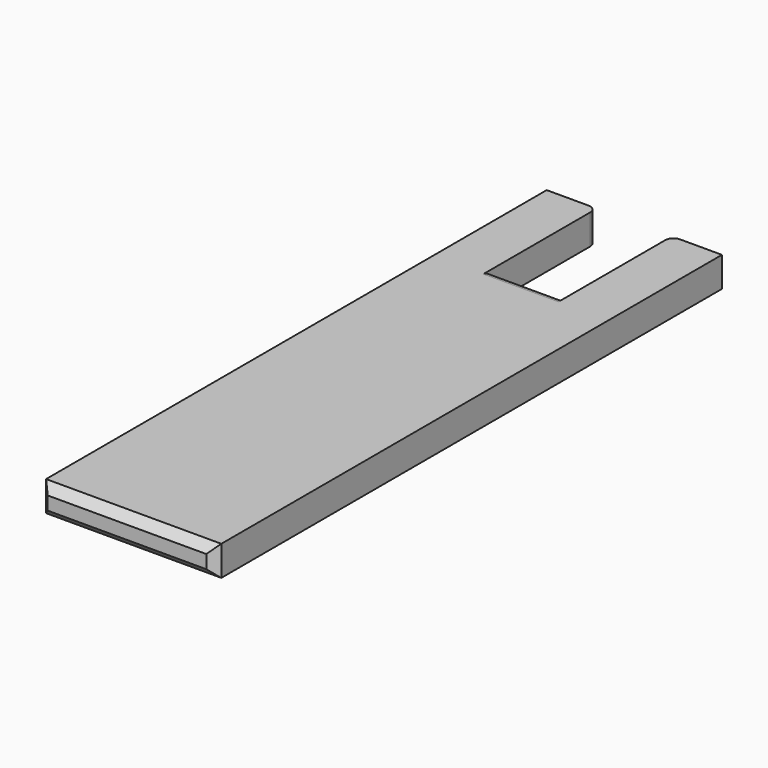
from build123d import *

# Parameters (mm, degrees)
F1_DEPTH = 1.8
F2_R     = 0.5
F3_SIZE  = 0.5


with BuildPart() as f1:
    # F0 (on Top) → F1 (new body)
    with BuildSketch(Plane.XY):
        Polygon((-5.25, -15), (5.25, -15), (5.25, 15), (5.25, 23), (2.25, 23), (2.25, 15), (-2.25, 15), (-2.25, 23), (-5.25, 23), (-5.25, 15), align=None)
    extrude(amount=F1_DEPTH)

    # F2
    f2_edges = [f1.edges().sort_by_distance(p)[0] for p in [
        (-2.25, 23, 0.9),
        (2.25, 23, 0.9),
        (0, 15, 1.8),
        (0, 15, 0),
    ]]
    fillet(f2_edges, radius=F2_R)

    # F3
    f3_edges = [f1.edges().sort_by_distance(p)[0] for p in [
        (0, -15, 1.8),
        (5.25, -15, 0.9),
        (0, -15, 0),
        (-5.25, -15, 0.9),
    ]]
    chamfer(f3_edges, length=F3_SIZE)


solid = f1.part
